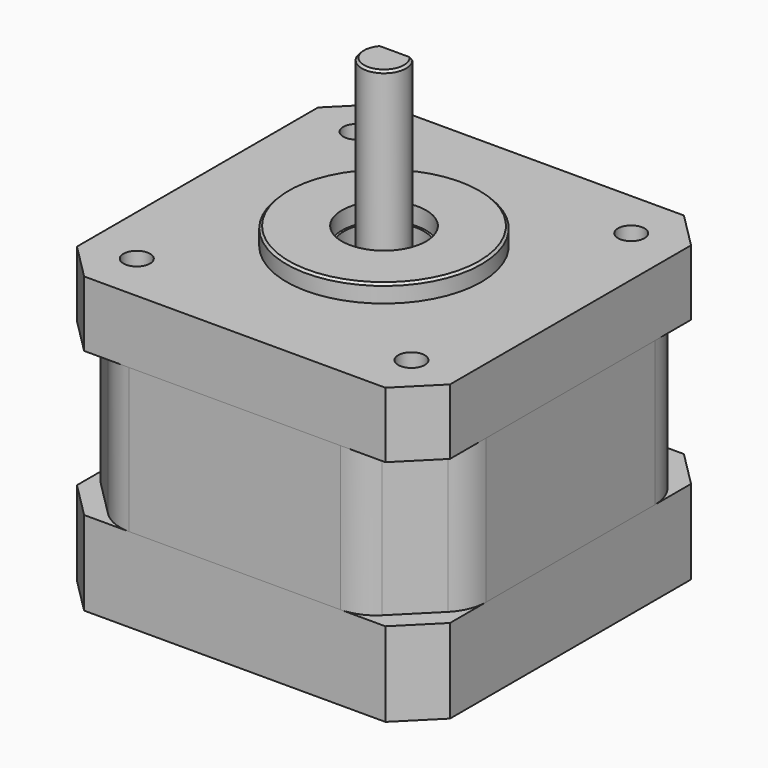
from build123d import *

# Parameters (mm, degrees)
F0_R      = 4.5
F1_DEPTH  = 9.5
F3_DEPTH  = 16.3
F4_R      = 1.5
F4_R_2    = 4.5
F5_DEPTH  = 7.4
F6_R      = 11
F6_R_2    = 4.75
F7_DEPTH  = 2
F8_SIZE   = 0.25
F9_R      = 2.5
F10_DEPTH = 26.1
F11_SIZE  = 0.25
F12_W     = 6.4639246052
F12_H     = 1.9025028002
F13_DEPTH = 15.3
F14_R     = 5


with BuildPart() as f1:
    # F0 (on Top) → F1 (new body)
    with BuildSketch(Plane.XY):
        Polygon((17, 21.05), (0, 21.05), (-17, 21.05), (-21.05, 17), (-21.05, 0), (-21.05, -17), (-17, -21.05), (0, -21.05), (17, -21.05), (21.05, -17), (21.05, 0), (21.05, 17), align=None)
        Circle(F0_R, mode=Mode.SUBTRACT)
    extrude(amount=F1_DEPTH)


with BuildPart() as f3:
    # F2 (on face) → F3 (new body)
    with BuildSketch(Plane.XY.offset(9.5)):
        Polygon((-21.05, 14), (-21.05, 0), (-21.05, -14), (-14, -21.05), (0, -21.05), (14, -21.05), (21.05, -14), (21.05, 0), (21.05, 14), (14, 21.05), (0, 21.05), (-14, 21.05), align=None)
    extrude(amount=F3_DEPTH)

    # F14
    f14_edges = [f3.edges().sort_by_distance(p)[0] for p in [
        (14, 21.05, 17.65),
        (21.05, 14, 17.65),
        (21.05, -14, 17.65),
        (14, -21.05, 17.65),
        (-14, -21.05, 17.65),
        (-21.05, -14, 17.65),
        (-21.05, 14, 17.65),
        (-14, 21.05, 17.65),
    ]]
    fillet(f14_edges, radius=F14_R)


with BuildPart() as f5:
    # F4 (on face) → F5 (new body)
    with BuildSketch(Plane.XY.offset(25.8)):
        Polygon((16.9999995679, 21.0500004321), (-4.321e-07, 21.0500004321), (-17.0000004321, 21.0500004321), (-21.0500004321, 17.0000004321), (-21.0500004321, 4.321e-07), (-21.0500004321, -16.9999995679), (-17.0000004321, -21.0499995679), (-4.321e-07, -21.0499995679), (16.9999995679, -21.0499995679), (21.0499995679, -16.9999995679), (21.0499995679, 4.321e-07), (21.0499995679, 17.0000004321), align=None)
        with Locations((-15.5, -15.5)):
            Circle(F4_R, mode=Mode.SUBTRACT)
        with Locations((15.5, -15.5)):
            Circle(F4_R, mode=Mode.SUBTRACT)
        with Locations((-4.321e-07, 4.321e-07)):
            Circle(F4_R_2, mode=Mode.SUBTRACT)
        with Locations((-15.5, 15.5)):
            Circle(F4_R, mode=Mode.SUBTRACT)
        with Locations((15.5, 15.5)):
            Circle(F4_R, mode=Mode.SUBTRACT)
    extrude(amount=F5_DEPTH)

    # F6 (on face) → F7 (join)
    with BuildSketch(Plane.XY.offset(33.2)):
        with Locations((-4.321e-07, 4.321e-07)):
            Circle(F6_R)
        with Locations((-4.321e-07, 4.321e-07)):
            Circle(F6_R_2, mode=Mode.SUBTRACT)
    extrude(amount=F7_DEPTH)

    # F8
    f8_edges = [f5.edges().sort_by_distance(p)[0] for p in [
        (-11, 0, 35.2),
    ]]
    chamfer(f8_edges, length=F8_SIZE)


with BuildPart() as f10:
    # F9 (on face) → F10 (new body)
    with BuildSketch(Plane.XY.offset(25.8)):
        Circle(F9_R)
    extrude(amount=F10_DEPTH)

    # F11
    f11_edges = [f10.edges().sort_by_distance(p)[0] for p in [
        (-2.5, 0, 51.9),
    ]]
    chamfer(f11_edges, length=F11_SIZE)

    # F12 (on face) → F13 (cut)
    with BuildSketch(Plane.XY.offset(51.9)):
        with Locations((-0.0116014853, 2.4512514001)):
            Rectangle(F12_W, F12_H)
    extrude(amount=-F13_DEPTH, mode=Mode.SUBTRACT)


solid = Compound([f1.part, f3.part, f5.part, f10.part])
